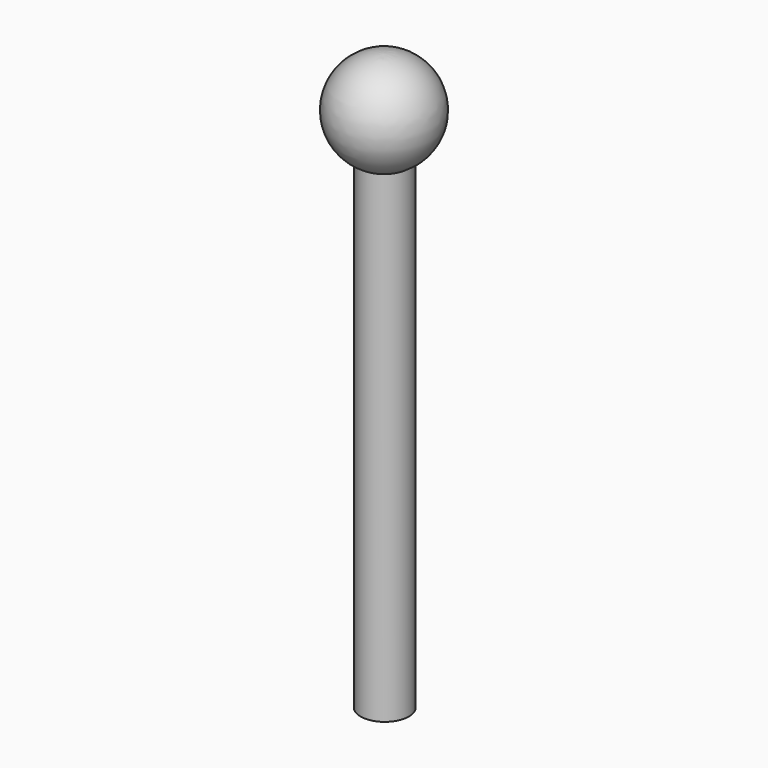
from build123d import *

# Parameters (mm, degrees)
F0_W = 1.27
F0_H = 25.4


with BuildPart() as f1:
    # F0 (on Front) → F1 (revolve)
    with BuildSketch(Plane.XZ):
        with Locations((-3.699669, 12.7)):
            Rectangle(F0_W, F0_H)
    revolve(axis=Axis((-3.064669, 0, 12.7), (0, 0, -1)))

    # F2 (on Front) → F3 (revolve)
    with BuildSketch(Plane.XZ):
        with BuildLine():
            Line((-3.103426, 25.006054), (-3.103426, 30.266104))
            ThreePointArc((-3.103426, 30.266104), (-5.733452, 27.636079), (-3.103426, 25.006054))
        make_face()
    revolve(axis=Axis((-3.103426, 0, 27.636079), (0, 0, 1)))


solid = f1.part
